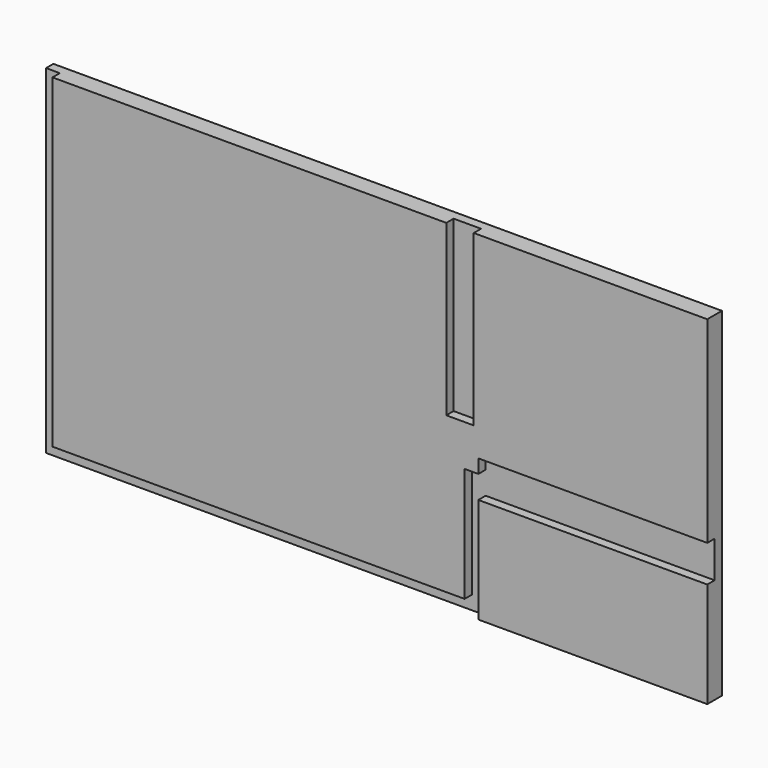
from build123d import *

# Parameters (mm, degrees)
F0_W     = 146
F0_H     = 74
F1_DEPTH = 4
F3_DEPTH = 2
F2_W     = 6
F2_H     = 37
F4_DEPTH = 2
F5_DEPTH = 2


with BuildPart() as f1:
    # F0 (on Front) → F1 (new body)
    with BuildSketch(Plane.XZ):
        with Locations((73, 37)):
            Rectangle(F0_W, F0_H)
    extrude(amount=F1_DEPTH)

    # F2 (on face) → F3 (cut)
    with BuildSketch(Plane.XZ.offset(4)):
        Polygon((3, 3), (3, 74), (0, 74), (0, 0), (96, 0), (96, 23), (93, 23), (93, 3), align=None)
    extrude(amount=-F3_DEPTH, mode=Mode.SUBTRACT)

    # F2 (on face) → F4 (cut)
    with BuildSketch(Plane.XZ.offset(4)):
        with Locations((92, 55.5)):
            Rectangle(F2_W, F2_H)
    extrude(amount=-F4_DEPTH, mode=Mode.SUBTRACT)

    # F2 (on face) → F5 (cut)
    with BuildSketch(Plane.XZ.offset(4)):
        Polygon((93, 28), (93, 23), (96, 23), (146, 23), (146, 31), (96, 31), (96, 28), align=None)
    extrude(amount=-F5_DEPTH, mode=Mode.SUBTRACT)


solid = f1.part
